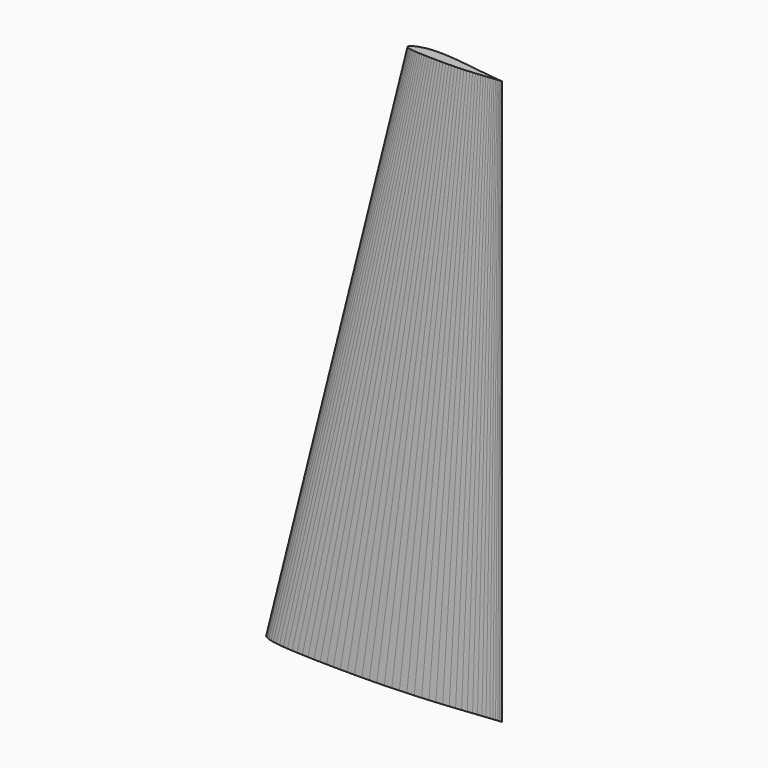
from build123d import *


with BuildPart() as part:
    # DWire → Loft section 0
    with BuildSketch(Plane.XY):
        Polygon((250, 0), (249.7525, 0.015), (249.015, 0.06), (247.785, 0.1525), (246.0725, 0.3025), (243.8825, 0.5175), (241.2225, 0.7975), (238.1025, 1.14), (234.5375, 1.5425), (230.54, 2.0025), (226.1275, 2.5225), (221.315, 3.11), (216.12, 3.7575), (210.5675, 4.47), (204.6775, 5.24), (198.4725, 6.0675), (191.9775, 6.9475), (185.22, 7.875), (178.2225, 8.8425), (171.015, 9.8425), (163.6275, 10.865), (156.0875, 11.905), (148.4225, 12.945), (140.6675, 13.9725), (132.85, 14.975), (125, 15.9325), (117.1525, 16.8275), (109.3325, 17.645), (101.5775, 18.365), (93.915, 18.9675), (86.3725, 19.435), (78.985, 19.7525), (71.7775, 19.905), (64.78, 19.88), (58.0225, 19.6725), (51.5275, 19.2725), (45.3225, 18.6825), (39.4325, 17.905), (33.88, 16.95), (28.685, 15.83), (23.8725, 14.56), (19.46, 13.165), (15.4625, 11.665), (11.8975, 10.0875), (8.7775, 8.4625), (6.1175, 6.82), (3.9275, 5.205), (2.215, 3.675), (0.985, 2.2875), (0.2475, 1.0675), (0, 0), (0.2475, -0.975), (0.985, -1.9175), (2.215, -2.86), (3.9275, -3.79), (6.1175, -4.6725), (8.7775, -5.48), (11.8975, -6.2025), (15.4625, -6.84), (19.46, -7.3975), (23.8725, -7.8825), (28.685, -8.3075), (33.88, -8.675), (39.4325, -8.9975), (45.3225, -9.2775), (51.5275, -9.5225), (58.0225, -9.735), (64.78, -9.9175), (71.7775, -10.07), (78.985, -10.1875), (86.3725, -10.2725), (93.915, -10.3175), (101.5775, -10.32), (109.3325, -10.2725), (117.1525, -10.1725), (125, -10.015), (132.85, -9.7975), (140.6675, -9.515), (148.4225, -9.1725), (156.0875, -8.77), (163.6275, -8.31), (171.015, -7.7975), (178.2225, -7.2425), (185.22, -6.6525), (191.9775, -6.04), (198.4725, -5.41), (204.6775, -4.78), (210.5675, -4.1575), (216.12, -3.5575), (221.315, -2.985), (226.1275, -2.45), (230.54, -1.9625), (234.5375, -1.5225), (238.1025, -1.1325), (241.2225, -0.795), (243.8825, -0.515), (246.0725, -0.3025), (247.785, -0.1525), (249.015, -0.06), (249.7525, -0.015), align=None)
    # DWire001 → Loft section 1
    with BuildSketch(Plane(origin=(150, 0, 600), x_dir=(1, 0, 0), z_dir=(0, 0, 1))):
        Polygon((100, 0), (99.901, 0.006), (99.606, 0.024), (99.114, 0.061), (98.429, 0.121), (97.553, 0.207), (96.489, 0.319), (95.241, 0.456), (93.815, 0.617), (92.216, 0.801), (90.451, 1.009), (88.526, 1.244), (86.448, 1.503), (84.227, 1.788), (81.871, 2.096), (79.389, 2.427), (76.791, 2.779), (74.088, 3.15), (71.289, 3.537), (68.406, 3.937), (65.451, 4.346), (62.435, 4.762), (59.369, 5.178), (56.267, 5.589), (53.14, 5.99), (50, 6.373), (46.861, 6.731), (43.733, 7.058), (40.631, 7.346), (37.566, 7.587), (34.549, 7.774), (31.594, 7.901), (28.711, 7.962), (25.912, 7.952), (23.209, 7.869), (20.611, 7.709), (18.129, 7.473), (15.773, 7.162), (13.552, 6.78), (11.474, 6.332), (9.549, 5.824), (7.784, 5.266), (6.185, 4.666), (4.759, 4.035), (3.511, 3.385), (2.447, 2.728), (1.571, 2.082), (0.886, 1.47), (0.394, 0.915), (0.099, 0.427), (0, 0), (0.099, -0.39), (0.394, -0.767), (0.886, -1.144), (1.571, -1.516), (2.447, -1.869), (3.511, -2.192), (4.759, -2.481), (6.185, -2.736), (7.784, -2.959), (9.549, -3.153), (11.474, -3.323), (13.552, -3.47), (15.773, -3.599), (18.129, -3.711), (20.611, -3.809), (23.209, -3.894), (25.912, -3.967), (28.711, -4.028), (31.594, -4.075), (34.549, -4.109), (37.566, -4.127), (40.631, -4.128), (43.733, -4.109), (46.861, -4.069), (50, -4.006), (53.14, -3.919), (56.267, -3.806), (59.369, -3.669), (62.435, -3.508), (65.451, -3.324), (68.406, -3.119), (71.289, -2.897), (74.088, -2.661), (76.791, -2.416), (79.389, -2.164), (81.871, -1.912), (84.227, -1.663), (86.448, -1.423), (88.526, -1.194), (90.451, -0.98), (92.216, -0.785), (93.815, -0.609), (95.241, -0.453), (96.489, -0.318), (97.553, -0.206), (98.429, -0.121), (99.114, -0.061), (99.606, -0.024), (99.901, -0.006), align=None)
    loft()


solid = part.part
